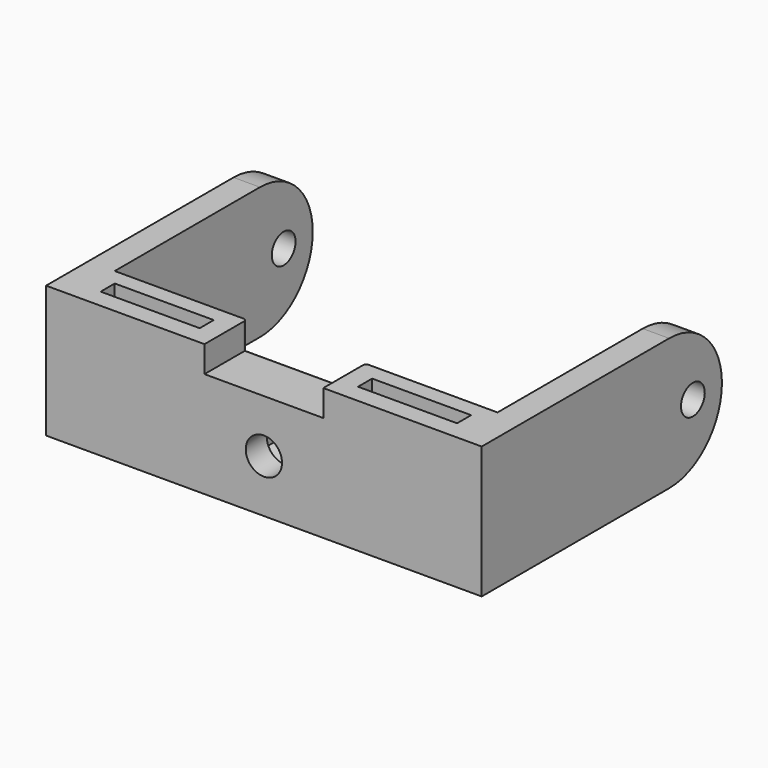
from build123d import *

# Parameters (mm, degrees)
SKETCH005_W             = 58
SKETCH005_H             = 20
SKETCH005_R             = 2.75
PAD004_DEPTH            = 8
SKETCH006_R             = 2.25
PAD005_DEPTH            = 4
POCKET005_DEPTH         = 4
SKETCH011_W             = 15
SKETCH011_H             = 2.666667
POCKET007_DEPTH         = 20
SKETCH012_W             = 18
SKETCH012_H             = 4
POCKET008_DEPTH         = 8
FILLET_R                = 0.5
BODY002_PLACEMENT_ANGLE = 180


with BuildPart() as part:
    # Sketch005 → Pad004 (new body)
    with BuildSketch(Plane.XZ):
        Rectangle(SKETCH005_W, SKETCH005_H)
        with Locations((0, 2)):
            Circle(SKETCH005_R, mode=Mode.SUBTRACT)
    extrude(amount=PAD004_DEPTH)

    # Sketch006 (on Face4 of Pad004) → Pad005 (join)
    with BuildSketch(Plane(origin=(-29, 0, 0), x_dir=(0, 0, -1), z_dir=(-1, 0, 0))):
        with BuildLine():
            Line((-10, 0), (10, 0))
            Line((10, 0), (10, 35.5))
            ThreePointArc((10, 35.5), (0, 45.5), (-10, 35.5))
            Line((-10, 35.5), (-10, 0))
        make_face()
        with Locations((0, 40)):
            Circle(SKETCH006_R, mode=Mode.SUBTRACT)
    pad005 = extrude(amount=PAD005_DEPTH)

    # Mirrored003: Pad005 across YZ
    add(pad005.mirror(Plane.YZ))

    # Sketch007 (on Face5 of Mirrored003) → Pocket005 (cut)
    with BuildSketch(Plane.XZ.offset(8)):
        Polygon((4.113621, 4.375), (0, 6.75), (-4.113621, 4.375), (-4.113621, -0.375), (0, -2.75), (4.113621, -0.375), align=None)
    extrude(amount=-POCKET005_DEPTH, mode=Mode.SUBTRACT)

    # Sketch011 (on Face14 of Pocket005) → Pocket007 (cut)
    with BuildSketch(Plane(origin=(0, 0, 10), x_dir=(-1, 0, 0), z_dir=(0, 0, 1))):
        with Locations((-19.5, 4.169504)):
            Rectangle(SKETCH011_W, SKETCH011_H)
    pocket007 = extrude(amount=-POCKET007_DEPTH, mode=Mode.SUBTRACT)

    # Mirrored004: Pocket007 across YZ
    add(pocket007.mirror(Plane.YZ), mode=Mode.SUBTRACT)

    # Sketch012 (on Face3 of Mirrored004) → Pocket008 (cut)
    with BuildSketch(Plane(origin=(0, 0, 0), x_dir=(1, 0, 0), z_dir=(0, 1, 0))):
        with Locations((0, 8)):
            Rectangle(SKETCH012_W, SKETCH012_H)
    extrude(amount=-POCKET008_DEPTH, mode=Mode.SUBTRACT)

    # Fillet
    fillet_edges = [part.edges().sort_by_distance(p)[0] for p in [
        (0, -8, -6),
        (9, -8, -8),
        (-9, -8, -8),
    ]]
    fillet(fillet_edges, radius=FILLET_R)


with BuildPart() as part_1:
    # Body002 placement: moved
    add(part.part.moved(Location((0, -15, -23))).rotate(Axis((0, -15, -23), (1, 0, 0)), BODY002_PLACEMENT_ANGLE))


solid = part_1.part
